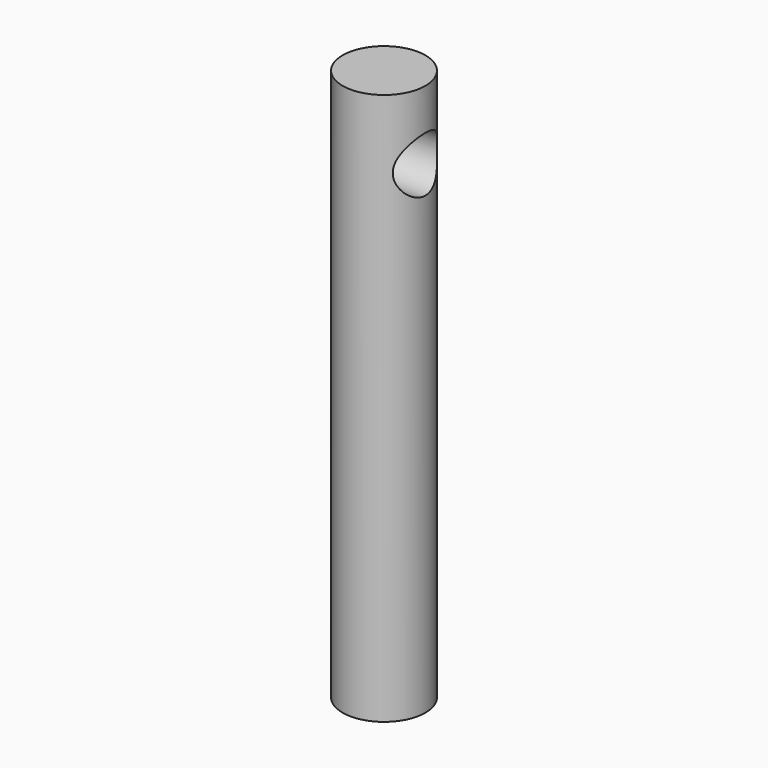
from build123d import *

# Parameters (mm, degrees)
F0_R     = 6
F1_DEPTH = 40
F2_R     = 4
F3_DEPTH = 12.5


with BuildPart() as f1:
    # F0 (on Top) → F1 (new body, symmetric)
    with BuildSketch(Plane.XY):
        Circle(F0_R)
    extrude(amount=F1_DEPTH, both=True)

    # F2 (on Right) → F3 (cut, symmetric)
    with BuildSketch(Plane.YZ):
        with Locations((0, 30)):
            Circle(F2_R)
    extrude(amount=F3_DEPTH, both=True, mode=Mode.SUBTRACT)


solid = f1.part
